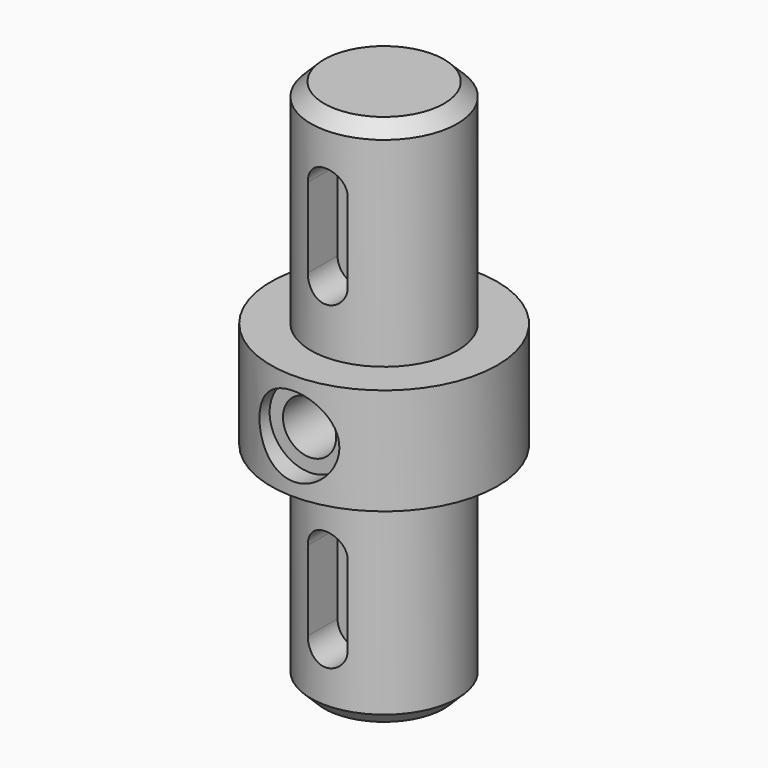
from build123d import *

# Parameters (mm, degrees)
F0_R      = 17
F1_DEPTH  = 16
F2_R      = 11
F3_DEPTH  = 32
F4_SIZE   = 2
F5_R      = 11
F6_DEPTH  = 32
F7_SIZE   = 2
F9_R      = 6
F10_DEPTH = 3.001
F11_R     = 4
F12_DEPTH = 31.001
F15_DEPTH = 12.001
F17_DEPTH = 12.001


with BuildPart() as f1:
    # F0 (on Top) → F1 (new body)
    with BuildSketch(Plane.XY):
        Circle(F0_R)
    extrude(amount=F1_DEPTH)

    # F2 (on face) → F3 (join)
    with BuildSketch(Plane(origin=(0, 0, 0), x_dir=(1, 0, 0), z_dir=(0, 0, -1))):
        Circle(F2_R)
    extrude(amount=F3_DEPTH)

    # F4
    f4_edges = [f1.edges().sort_by_distance(p)[0] for p in [
        (-11, 0, -32),
    ]]
    chamfer(f4_edges, length=F4_SIZE)

    # F5 (on face) → F6 (join)
    with BuildSketch(Plane.XY.offset(16)):
        Circle(F5_R)
    extrude(amount=F6_DEPTH)

    # F7
    f7_edges = [f1.edges().sort_by_distance(p)[0] for p in [
        (-11, 0, 48),
    ]]
    chamfer(f7_edges, length=F7_SIZE)

    # F9 (on offset) → F10 (cut, through all)
    with BuildSketch(Plane.XZ.offset(14)):
        with Locations((0, 8)):
            Circle(F9_R)
    extrude(amount=F10_DEPTH, mode=Mode.SUBTRACT)

    # F11 (on face) → F12 (cut, through all)
    with BuildSketch(Plane.XZ.offset(14)):
        with Locations((0, 8)):
            Circle(F11_R)
    extrude(amount=-F12_DEPTH, mode=Mode.SUBTRACT)

    # F14 (on offset) → F15 (cut, through all)
    with BuildSketch(Plane.XZ.offset(5)):
        with BuildLine():
            ThreePointArc((-3, 26), (0, 23), (3, 26))
            Line((3, 26), (3, 38))
            ThreePointArc((3, 38), (0, 41), (-3, 38))
            Line((-3, 38), (-3, 26))
        make_face()
    extrude(amount=F15_DEPTH, mode=Mode.SUBTRACT)

    # F16 (on offset) → F17 (cut, through all)
    with BuildSketch(Plane.XZ.offset(5)):
        with BuildLine():
            Line((3, -22), (3, -10))
            ThreePointArc((3, -10), (0, -7), (-3, -10))
            Line((-3, -10), (-3, -22))
            ThreePointArc((-3, -22), (0, -25), (3, -22))
        make_face()
    extrude(amount=F17_DEPTH, mode=Mode.SUBTRACT)


solid = f1.part
